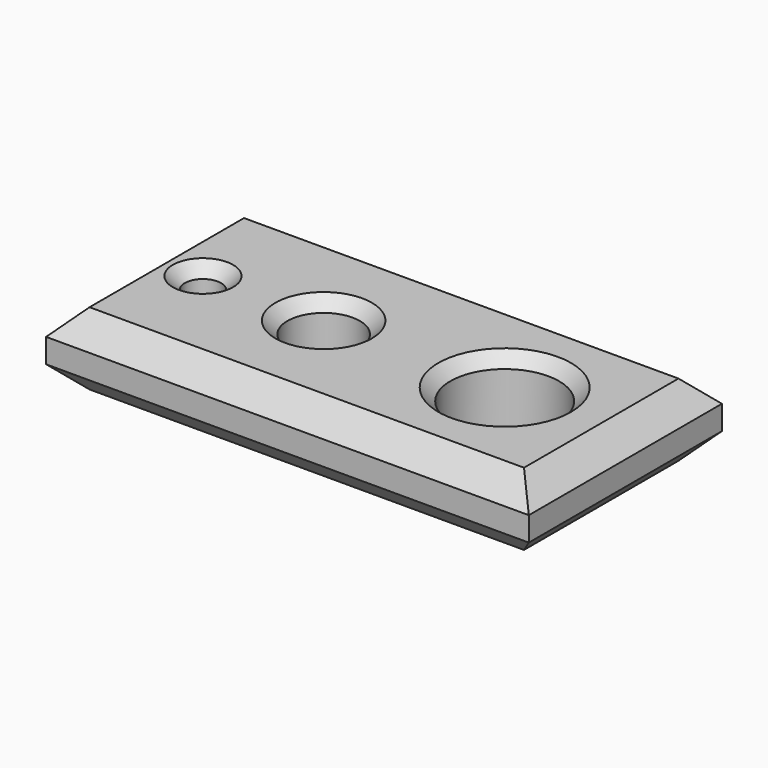
from build123d import *

# Parameters (mm, degrees)
F0_W     = 200
F0_H     = 100
F0_R     = 7.5
F0_R_2   = 15
F0_R_3   = 22.5
F1_DEPTH = 30
F2_SIZE  = 10
F3_SIZE  = 5


with BuildPart() as f1:
    # F0 (on Top) → F1 (new body)
    with BuildSketch(Plane.XY):
        Rectangle(F0_W, F0_H)
        with Locations((-75, 0)):
            Circle(F0_R, mode=Mode.SUBTRACT)
        with Locations((-25, 0)):
            Circle(F0_R_2, mode=Mode.SUBTRACT)
        with Locations((50, 0)):
            Circle(F0_R_3, mode=Mode.SUBTRACT)
    extrude(amount=F1_DEPTH)

    # F2
    f2_edges = [f1.edges().sort_by_distance(p)[0] for p in [
        (-100, 0, 30),
        (0, -50, 30),
        (100, 0, 30),
        (0, 50, 30),
        (0, -50, 0),
        (-100, 0, 0),
        (100, 0, 0),
        (0, 50, 0),
    ]]
    chamfer(f2_edges, length=F2_SIZE)

    # F3
    f3_edges = [f1.edges().sort_by_distance(p)[0] for p in [
        (-82.5, 0, 30),
        (-40, 0, 30),
        (27.5, 0, 30),
    ]]
    chamfer(f3_edges, length=F3_SIZE)


solid = f1.part
